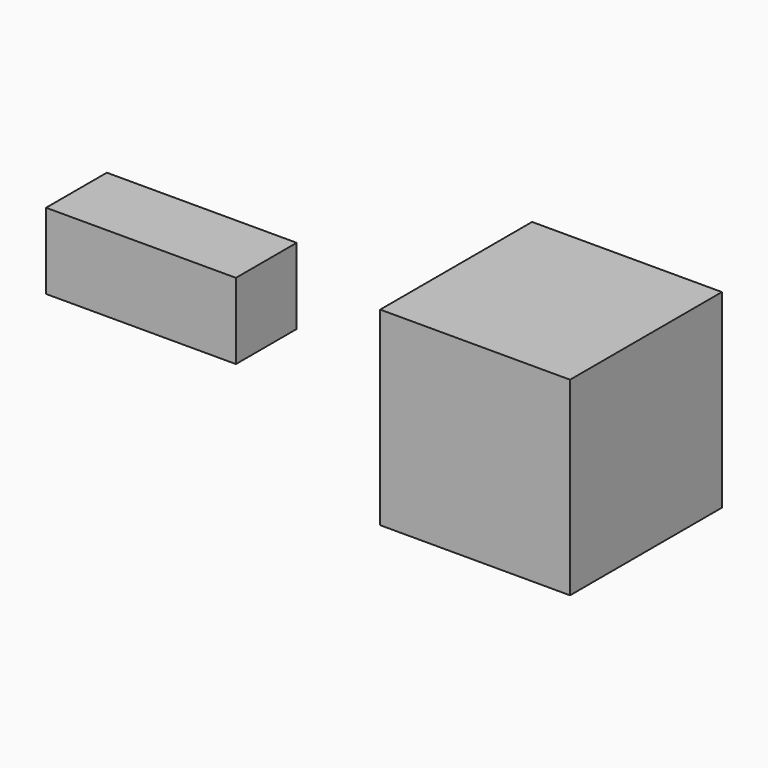
from build123d import *

# Parameters (mm, degrees)
F0_W     = 25
F0_H     = 25
F1_DEPTH = 25
F4_START = -32.5
F3_W     = 10
F3_H     = 10
F4_DEPTH = 10
F5_START = -75
F5_DEPTH = 25


with BuildPart() as f1:
    # F0 (on Front) → F1 (new body)
    with BuildSketch(Plane.XZ):
        with Locations((-12.5, 12.5)):
            Rectangle(F0_W, F0_H)
    extrude(amount=F1_DEPTH)

    # F3 (on offset) → F4 (cut)
    with BuildSketch(Plane.YZ.offset(25).offset(F4_START)):
        with Locations((-12.5, 12.5)):
            Rectangle(F3_W, F3_H)
    extrude(amount=-F4_DEPTH, mode=Mode.SUBTRACT)


with BuildPart() as f5:
    # F3 (on offset) → F5 (new body)
    with BuildSketch(Plane.YZ.offset(25).offset(F5_START)):
        with Locations((-12.5, 12.5)):
            Rectangle(F3_W, F3_H)
    extrude(amount=-F5_DEPTH)


solid = Compound([f1.part, f5.part])
